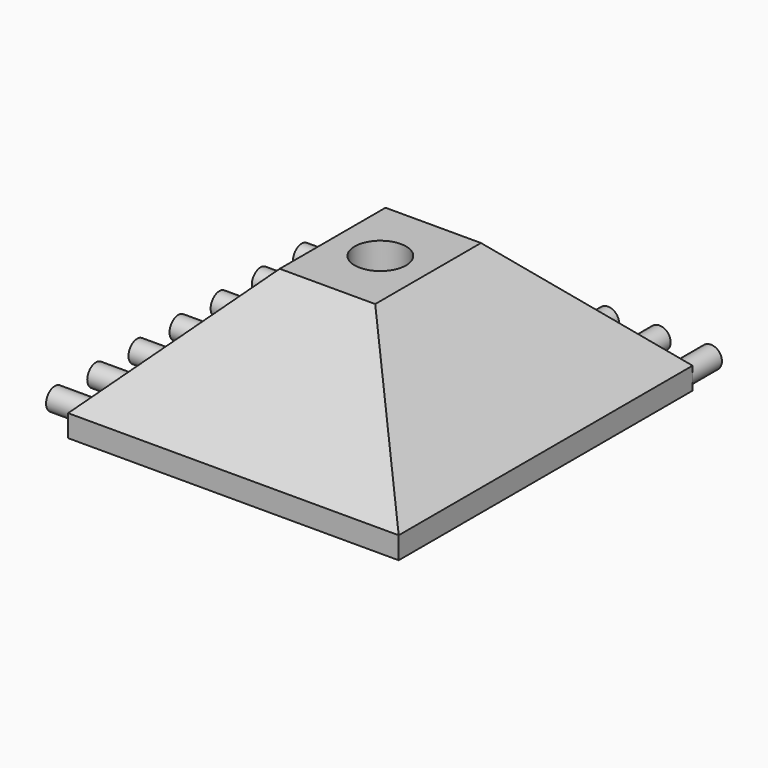
from build123d import *

# Parameters (mm, degrees)
SKETCH_W        = 45
SKETCH_H        = 50
PAD_DEPTH       = 25
CHAMFER_SIZE    = 22
SKETCH001_R     = 3.5
POCKET_DEPTH    = 25.001
SKETCH002_W     = 32.700705
SKETCH002_H     = 10
POCKET001_DEPTH = 45.001
SKETCH003_R     = 1.5
SKETCH003_R_2   = 1.518583
SKETCH003_R_3   = 1.500476
PAD001_DEPTH    = 5
SKETCH004_R     = 1.5
SKETCH004_R_2   = 1.504062
SKETCH004_R_3   = 1.509717
SKETCH004_R_4   = 1.483533
SKETCH004_R_5   = 1.504121
PAD002_DEPTH    = 5
POCKET002_DEPTH = 4


with BuildPart() as part:
    # Sketch → Pad (new body)
    with BuildSketch(Plane.XY):
        Rectangle(SKETCH_W, SKETCH_H)
    extrude(amount=PAD_DEPTH)

    # Chamfer
    chamfer_edges = [part.edges().sort_by_distance(p)[0] for p in [
        (0, 25, 25),
        (-22.5, 0, 25),
        (0, -25, 25),
        (22.5, 0, 25),
    ]]
    chamfer(chamfer_edges, length=CHAMFER_SIZE)

    # Sketch001 → Pocket (cut, through all)
    with BuildSketch(Plane(origin=(0, 0, 0), x_dir=(1, 0, 0), z_dir=(0, 0, -1))):
        Circle(SKETCH001_R)
    extrude(amount=-POCKET_DEPTH, mode=Mode.SUBTRACT)

    # Sketch002 → Pocket001 (cut, through all)
    with BuildSketch(Plane(origin=(-22.5, 0, 0), x_dir=(0, -1, 0), z_dir=(-1, 0, 0))):
        with Locations((-0.350352, 24)):
            Rectangle(SKETCH002_W, SKETCH002_H)
    extrude(amount=-POCKET001_DEPTH, mode=Mode.SUBTRACT)

    # Sketch003 → Pad001 (new body)
    with BuildSketch(Plane(origin=(0, 25, 0), x_dir=(-1, 0, 0), z_dir=(0, 1, 0))):
        with Locations((-21, 1.5)):
            Circle(SKETCH003_R)
        with Locations((-14, 1.5)):
            Circle(SKETCH003_R_2)
        with Locations((0, 1.5)):
            Circle(SKETCH003_R)
        with Locations((-7, 1.5)):
            Circle(SKETCH003_R)
        with Locations((7, 1.5)):
            Circle(SKETCH003_R_3)
        with Locations((14, 1.5)):
            Circle(SKETCH003_R)
        with Locations((21, 1.5)):
            Circle(SKETCH003_R)
    extrude(amount=PAD001_DEPTH)

    # Sketch004 → Pad002 (new body)
    with BuildSketch(Plane(origin=(-22.5, 0, 0), x_dir=(0, -1, 0), z_dir=(-1, 0, 0))):
        with Locations((0, 1.5)):
            Circle(SKETCH004_R)
        with Locations((-7, 1.5)):
            Circle(SKETCH004_R_2)
        with Locations((-14, 1.5)):
            Circle(SKETCH004_R)
        with Locations((-21, 1.5)):
            Circle(SKETCH004_R_3)
        with Locations((7, 1.5)):
            Circle(SKETCH004_R_4)
        with Locations((14, 1.5)):
            Circle(SKETCH004_R)
        with Locations((21, 1.5)):
            Circle(SKETCH004_R_5)
    extrude(amount=PAD002_DEPTH)

    # Sketch005 → Pocket002 (cut)
    with BuildSketch(Plane(origin=(0, 0, 0), x_dir=(1, 0, 0), z_dir=(0, 0, -1))):
        Polygon((5.7, -3.290897), (5.7, 3.290897), (0, 6.581793), (-5.7, 3.290897), (-5.7, -3.290897), (0, -6.581793), align=None)
    extrude(amount=-POCKET002_DEPTH, mode=Mode.SUBTRACT)


solid = part.part
